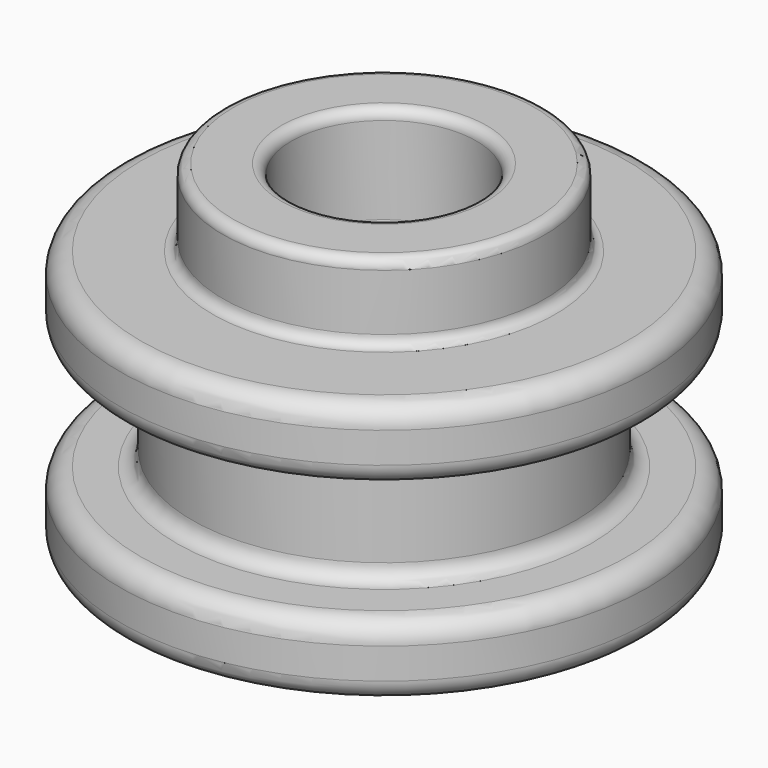
from build123d import *


with BuildPart() as f1:
    # F0 (on Front) → F1 (revolve)
    with BuildSketch(Plane.XZ):
        with BuildLine():
            Line((-11.85, 0), (-6.25, 0))
            Line((-6.25, 0), (-6.25, 8.15))
            ThreePointArc((-6.25, 8.15), (-6.176777, 8.326777), (-6, 8.4))
            Line((-6, 8.4), (-2.75, 8.4))
            Line((-2.75, 8.4), (-2.75, 11.5))
            Line((-2.75, 11.5), (-4.25, 11.5))
            ThreePointArc((-4.25, 11.5), (-4.426777, 11.573223), (-4.5, 11.75))
            Line((-4.5, 11.75), (-4.5, 16))
            ThreePointArc((-4.5, 16), (-4.646447, 16.353553), (-5, 16.5))
            Line((-5, 16.5), (-7.35, 16.5))
            ThreePointArc((-7.35, 16.5), (-7.703553, 16.353553), (-7.85, 16))
            Line((-7.85, 16), (-7.85, 13.25))
            ThreePointArc((-7.85, 13.25), (-7.996447, 12.896447), (-8.35, 12.75))
            Line((-8.35, 12.75), (-11.85, 12.75))
            ThreePointArc((-11.85, 12.75), (-12.557107, 12.457107), (-12.85, 11.75))
            Line((-12.85, 11.75), (-12.85, 10.25))
            ThreePointArc((-12.85, 10.25), (-12.557107, 9.542893), (-11.85, 9.25))
            Line((-11.85, 9.25), (-10.1, 9.25))
            ThreePointArc((-10.1, 9.25), (-9.56967, 9.03033), (-9.35, 8.5))
            Line((-9.35, 8.5), (-9.35, 4.25))
            ThreePointArc((-9.35, 4.25), (-9.56967, 3.71967), (-10.1, 3.5))
            Line((-10.1, 3.5), (-11.85, 3.5))
            ThreePointArc((-11.85, 3.5), (-12.557107, 3.207107), (-12.85, 2.5))
            Line((-12.85, 2.5), (-12.85, 1))
            ThreePointArc((-12.85, 1), (-12.557107, 0.292893), (-11.85, 0))
        make_face()
    revolve(axis=Axis((0, 0, 2.5), (0, 0, 1)))


solid = f1.part
